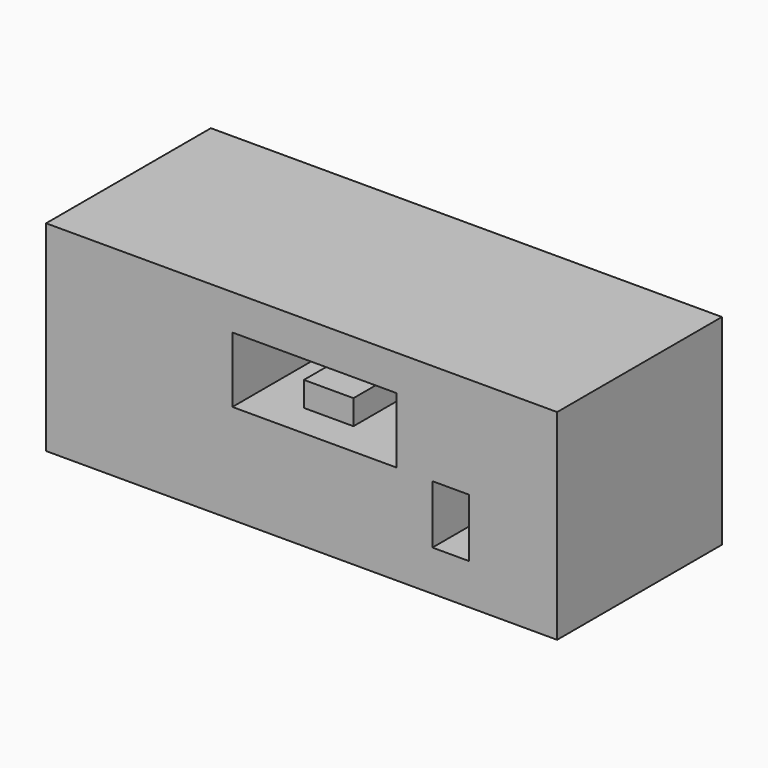
from build123d import *

# Parameters (mm, degrees)
F0_W     = 61.6851523519
F0_H     = 115.4553033412
F1_DEPTH = 112.395
F2_DEPTH = 224.79
F3_W     = 91.9657982886
F3_H     = 36.7413535714
F3_W_2   = 27.7609527111
F3_H_2   = 13.8463228941
F3_W_3   = 20.4830765724
F3_H_3   = 32.7579472214
F4_DEPTH = 65.405


with BuildPart() as f1:
    # F0 (on Top) → F1 (new body)
    with BuildSketch(Plane.XY):
        with Locations((-30.8425761759, -0.1723002642)):
            Rectangle(F0_W, F0_H)
    extrude(amount=F1_DEPTH)

    # F2 (add): a face of the model
    f2_faces = [f1.faces().sort_by_distance(p)[0] for p in [
        (0, -0.1723002642, 56.1975),
    ]]
    extrude(f2_faces, amount=F2_DEPTH)

    # F3 (on face) → F4 (cut)
    with BuildSketch(Plane.XZ.offset(57.8999519348)):
        with Locations((88.7409579009, 74.1017498076)):
            Rectangle(F3_W, F3_H)
        with Locations((96.7281907797, 75.1979798079)):
            Rectangle(F3_W_2, F3_H_2, mode=Mode.SUBTRACT)
        with Locations((165.1449352503, 39.1824124381)):
            Rectangle(F3_W_3, F3_H_3)
    extrude(amount=-F4_DEPTH, mode=Mode.SUBTRACT)


solid = f1.part
